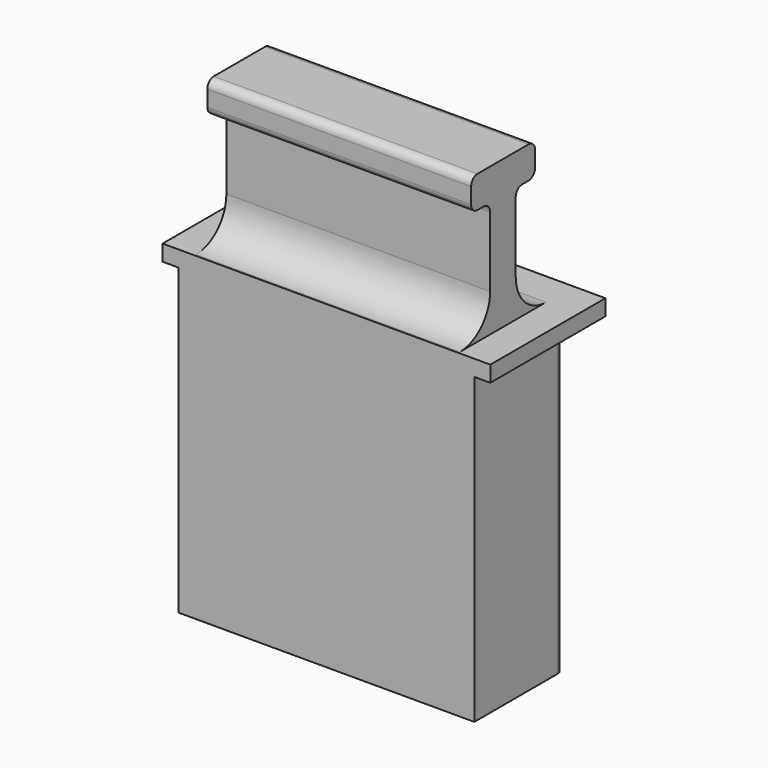
from build123d import *

# Parameters (mm, degrees)
SKETCH_W           = 33
SKETCH_H           = 14
PAD_DEPTH          = 38
SKETCH001_W        = 4
SKETCH001_H        = 58.5
PAD001_DEPTH       = 33
SKETCH002_W        = 10
SKETCH002_H        = 4
PAD002_DEPTH       = 33
SKETCH003_W        = 32
SKETCH003_H        = 5
SKETCH003_H_2      = 9
SKETCH003_H_3      = 14
POCKET_DEPTH       = 12
POCKET_FACE14_W    = 33
POCKET_FACE14_H    = 38
POCKET_FACE14_W_2  = 32
POCKET_FACE14_H_2  = 5
POCKET_FACE14_H_3  = 9
POCKET_FACE14_H_4  = 14
POCKET001_DEPTH    = 2
SKETCH004_W        = 33
SKETCH004_H        = 38
SKETCH004_W_2      = 32
SKETCH004_H_2      = 4
SKETCH004_H_3      = 8
SKETCH004_H_4      = 13
PAD003_DEPTH       = 2
POCKET002_DEPTH    = 1
POCKET003_DEPTH    = 31.5
SKETCH006_W        = 14
SKETCH006_H        = 38
PAD004_DEPTH       = 1
PAD005_DEPTH       = 1
SKETCH007_W        = 37
SKETCH007_H        = 14
PAD006_DEPTH       = 2
SKETCH008_W        = 37
SKETCH008_H        = 2
PAD007_DEPTH       = 4
FILLET_R           = 4.74
FILLET001_R        = 4.74
FILLET002_R        = 1
FILLET003_R        = 1
FILLET004_R        = 1
FILLET005_R        = 1
FILLET005_FACE22_W = 18
FILLET005_FACE22_H = 2
PAD008_DEPTH       = 2
PAD008_FACE3_W     = 14
PAD008_FACE3_H     = 38
PAD009_DEPTH       = 2
PAD009_FACE3_W     = 18
PAD009_FACE3_H     = 2
PAD010_DEPTH       = 2
PAD010_FACE1_W     = 14
PAD010_FACE1_H     = 38
PAD011_DEPTH       = 2
SKETCH009_W        = 20
SKETCH009_H        = 11
POCKET004_DEPTH    = 38
FILLET006_R        = 5
FILLET007_R        = 1
FILLET008_R        = 1
SKETCH010_W        = 1
SKETCH010_H        = 0.5
PAD012_DEPTH       = 12


with BuildPart() as part:
    # Sketch → Pad (new body)
    with BuildSketch(Plane.XY):
        Rectangle(SKETCH_W, SKETCH_H)
    extrude(amount=PAD_DEPTH)

    # Sketch001 (on Face2 of Pad) → Pad001 (join)
    with BuildSketch(Plane.YZ.offset(16.5)):
        with Locations((-0.02597, 29.25)):
            Rectangle(SKETCH001_W, SKETCH001_H)
    extrude(amount=-PAD001_DEPTH)

    # Sketch002 (on Face9 of Pad001) → Pad002 (join)
    with BuildSketch(Plane.YZ.offset(16.5)):
        with Locations((0, 56.5)):
            Rectangle(SKETCH002_W, SKETCH002_H)
    extrude(amount=-PAD002_DEPTH)

    # Sketch003 (on Face4 of Pad002) → Pocket (cut)
    with BuildSketch(Plane(origin=(0, 7, 0), x_dir=(-1, 0, 0), z_dir=(0, 1, 0))):
        with Locations((0, 33.3)):
            Rectangle(SKETCH003_W, SKETCH003_H)
        with Locations((0, 23.9)):
            Rectangle(SKETCH003_W, SKETCH003_H_2)
        with Locations((0, 10)):
            Rectangle(SKETCH003_W, SKETCH003_H_3)
    extrude(amount=-POCKET_DEPTH, mode=Mode.SUBTRACT)

    # Pocket Face14 → Pocket001 (cut)
    with BuildSketch(Plane(origin=(0, 7, 19.929609), x_dir=(1, 0, 0), z_dir=(0, 1, 0))):
        with Locations((0, 0.929609)):
            Rectangle(POCKET_FACE14_W, POCKET_FACE14_H)
        with Locations((0, -13.370391)):
            Rectangle(POCKET_FACE14_W_2, POCKET_FACE14_H_2, mode=Mode.SUBTRACT)
        with Locations((0, -3.970391)):
            Rectangle(POCKET_FACE14_W_2, POCKET_FACE14_H_3, mode=Mode.SUBTRACT)
        with Locations((0, 9.929609)):
            Rectangle(POCKET_FACE14_W_2, POCKET_FACE14_H_4, mode=Mode.SUBTRACT)
    extrude(amount=-POCKET001_DEPTH, mode=Mode.SUBTRACT)

    # Sketch004 (on Face6 of Pocket001) → Pad003 (join)
    with BuildSketch(Plane(origin=(0, 5, 0), x_dir=(-1, 0, 0), z_dir=(0, 1, 0))):
        with Locations((0, 19)):
            Rectangle(SKETCH004_W, SKETCH004_H)
        with Locations((0, 33.8)):
            Rectangle(SKETCH004_W_2, SKETCH004_H_2, mode=Mode.SUBTRACT)
        with Locations((0, 24.4)):
            Rectangle(SKETCH004_W_2, SKETCH004_H_3, mode=Mode.SUBTRACT)
        with Locations((0, 10.5)):
            Rectangle(SKETCH004_W_2, SKETCH004_H_4, mode=Mode.SUBTRACT)
    extrude(amount=PAD003_DEPTH)

    # Pad003 Face14 → Pocket002 (cut)
    with BuildSketch(Plane(origin=(-16.5, -0.002687, 24.170063), x_dir=(0, 1, 0), z_dir=(-1, 0, 0))):
        Polygon((1.976717, -13.829937), (7.002687, -13.829937), (7.002687, 24.170063), (-6.997313, 24.170063), (-6.997313, -13.829937), (-2.023283, -13.829937), (-2.023283, -30.329937), (-4.997313, -30.329937), (-4.997313, -34.329937), (5.002687, -34.329937), (5.002687, -30.329937), (1.976717, -30.329937), align=None)
    extrude(amount=-POCKET002_DEPTH, mode=Mode.SUBTRACT)

    # Sketch005 (on Face4 of Pocket002) → Pocket003 (cut)
    with BuildSketch(Plane(origin=(-15.5, 0, 0), x_dir=(0, -1, 0), z_dir=(-1, 0, 0))):
        Polygon((-5, 3), (-5, 4), (-6, 4), align=None)
        Polygon((-5, 19.4), (-5, 20.4), (-6, 20.4), align=None)
        Polygon((-5, 30.8), (-5, 31.8), (-6, 31.8), align=None)
    extrude(amount=-POCKET003_DEPTH, mode=Mode.SUBTRACT)

    # Sketch006 (on Face4 of Pocket003) → Pad004 (join)
    with BuildSketch(Plane(origin=(-15.5, 0, 0), x_dir=(0, -1, 0), z_dir=(-1, 0, 0))):
        with Locations((0, 19)):
            Rectangle(SKETCH006_W, SKETCH006_H)
    extrude(amount=PAD004_DEPTH)

    # Pad004 Face9 → Pad005 (add)
    with BuildSketch(Plane(origin=(-15.5, -0.01617, 50.117925), x_dir=(0, 1, 0), z_dir=(-1, 0, 0))):
        Polygon((1.9902, -4.382075), (1.9902, 12.117925), (-2.0098, 12.117925), (-2.0098, -4.382075), (-4.98383, -4.382075), (-4.98383, -8.382075), (5.01617, -8.382075), (5.01617, -4.382075), align=None)
    extrude(amount=PAD005_DEPTH)

    # Sketch007 (on Face5 of Pad005) → Pad006 (join)
    with BuildSketch(Plane.XY.offset(38)):
        Rectangle(SKETCH007_W, SKETCH007_H)
    extrude(amount=PAD006_DEPTH)

    # Sketch008 (on Face19 of Pad006) → Pad007 (join)
    with BuildSketch(Plane(origin=(0, 7, 0), x_dir=(-1, 0, 0), z_dir=(0, 1, 0))):
        with Locations((0, 39)):
            Rectangle(SKETCH008_W, SKETCH008_H)
    extrude(amount=PAD007_DEPTH)

    # Fillet
    fillet_edges = [part.edges().sort_by_distance(p)[0] for p in [
        (0, -2.02597, 40),
    ]]
    fillet(fillet_edges, radius=FILLET_R)

    # Fillet001
    fillet001_edges = [part.edges().sort_by_distance(p)[0] for p in [
        (0, 1.97403, 40),
    ]]
    fillet(fillet001_edges, radius=FILLET001_R)

    # Fillet002
    fillet002_edges = [part.edges().sort_by_distance(p)[0] for p in [
        (0, -2.02597, 54.5),
    ]]
    fillet(fillet002_edges, radius=FILLET002_R)

    # Fillet003
    fillet003_edges = [part.edges().sort_by_distance(p)[0] for p in [
        (0, 1.97403, 54.5),
    ]]
    fillet(fillet003_edges, radius=FILLET003_R)

    # Fillet004
    fillet004_edges = [part.edges().sort_by_distance(p)[0] for p in [
        (0, 5, 54.5),
        (0, 5, 58.5),
    ]]
    fillet(fillet004_edges, radius=FILLET004_R)

    # Fillet005
    fillet005_edges = [part.edges().sort_by_distance(p)[0] for p in [
        (0, -5, 58.5),
        (0, -5, 54.5),
    ]]
    fillet(fillet005_edges, radius=FILLET005_R)

    # Fillet005 Face22 → Pad008 (add)
    with BuildSketch(Plane(origin=(-18.5, 2, 39), x_dir=(0, 1, 0), z_dir=(-1, 0, 0))):
        Rectangle(FILLET005_FACE22_W, FILLET005_FACE22_H)
    extrude(amount=PAD008_DEPTH)

    # Pad008 Face3 → Pad009 (add)
    with BuildSketch(Plane(origin=(-16.5, 0, 19), x_dir=(0, 1, 0), z_dir=(-1, 0, 0))):
        Rectangle(PAD008_FACE3_W, PAD008_FACE3_H)
    extrude(amount=PAD009_DEPTH)

    # Pad009 Face3 → Pad010 (add)
    with BuildSketch(Plane(origin=(18.5, 2, 39), x_dir=(0, -1, 0), z_dir=(1, 0, 0))):
        Rectangle(PAD009_FACE3_W, PAD009_FACE3_H)
    extrude(amount=PAD010_DEPTH)

    # Pad010 Face1 → Pad011 (add)
    with BuildSketch(Plane(origin=(16.5, 0, 19), x_dir=(0, -1, 0), z_dir=(1, 0, 0))):
        Rectangle(PAD010_FACE1_W, PAD010_FACE1_H)
    extrude(amount=PAD011_DEPTH)

    # Sketch009 (on Face47 of Pad011) → Pocket004 (cut)
    with BuildSketch(Plane(origin=(0, 0, 0), x_dir=(1, 0, 0), z_dir=(0, 0, -1))):
        with Locations((0, -1.5)):
            Rectangle(SKETCH009_W, SKETCH009_H)
    extrude(amount=-POCKET004_DEPTH, mode=Mode.SUBTRACT)

    # Fillet006
    fillet006_edges = [part.edges().sort_by_distance(p)[0] for p in [
        (-10, -4, 36.9),
        (-10, -4, 29.6),
        (-10, -4, 18.2),
        (-10, -4, 1.5),
        (10, -4, 36.9),
        (10, -4, 29.6),
        (10, -4, 18.2),
        (10, -4, 1.5),
    ]]
    fillet(fillet006_edges, radius=FILLET006_R)

    # Fillet007
    fillet007_edges = [part.edges().sort_by_distance(p)[0] for p in [
        (-10, 7, 36.9),
        (-10, 7, 30.1),
        (-10, 7, 18.7),
        (-10, 7, 2),
        (10, 7, 36.9),
        (10, 7, 30.1),
        (10, 7, 18.7),
        (10, 7, 2),
    ]]
    fillet(fillet007_edges, radius=FILLET007_R)

    # Fillet008
    fillet008_edges = [part.edges().sort_by_distance(p)[0] for p in [
        (18.5, 7, 19),
        (-18.5, 7, 19),
    ]]
    fillet(fillet008_edges, radius=FILLET008_R)

    # Sketch010 (on Face53 of Fillet008) → Pad012 (join)
    with BuildSketch(Plane(origin=(0, -5, 0), x_dir=(-1, 0, 0), z_dir=(0, 1, 0))):
        with Locations((-14, 31.05)):
            Rectangle(SKETCH010_W, SKETCH010_H)
        with Locations((14, 3.25)):
            Rectangle(SKETCH010_W, SKETCH010_H)
        with Locations((12, 3.25)):
            Rectangle(SKETCH010_W, SKETCH010_H)
        with Locations((-12, 3.25)):
            Rectangle(SKETCH010_W, SKETCH010_H)
        with Locations((-14, 3.25)):
            Rectangle(SKETCH010_W, SKETCH010_H)
        with Locations((-14, 19.65)):
            Rectangle(SKETCH010_W, SKETCH010_H)
        with Locations((14, 19.65)):
            Rectangle(SKETCH010_W, SKETCH010_H)
        with Locations((12, 19.65)):
            Rectangle(SKETCH010_W, SKETCH010_H)
        with Locations((-12, 19.65)):
            Rectangle(SKETCH010_W, SKETCH010_H)
        with Locations((-12, 31.05)):
            Rectangle(SKETCH010_W, SKETCH010_H)
        with Locations((12, 31.05)):
            Rectangle(SKETCH010_W, SKETCH010_H)
        with Locations((14, 31.05)):
            Rectangle(SKETCH010_W, SKETCH010_H)
    extrude(amount=PAD012_DEPTH)


solid = part.part
